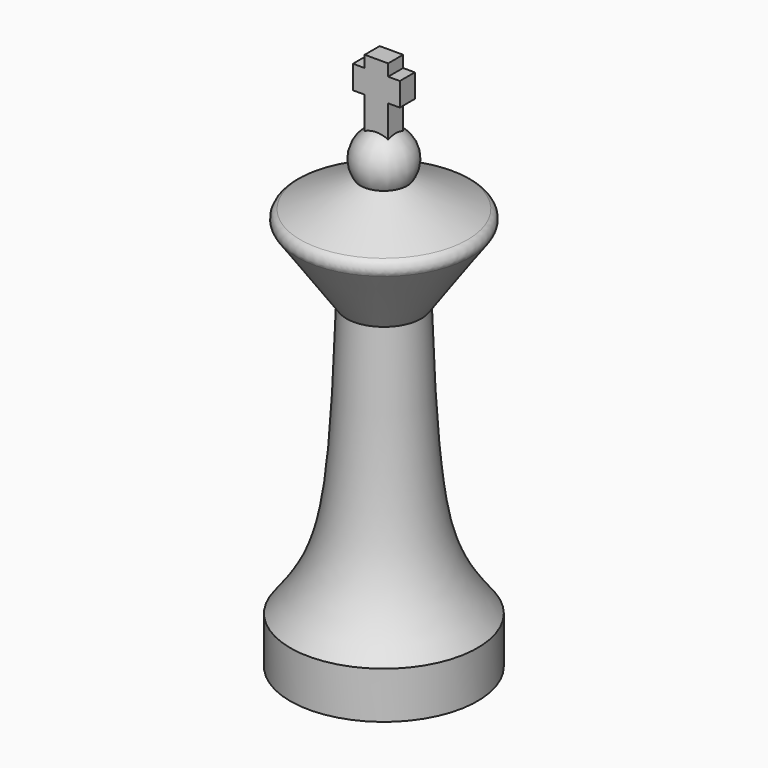
from build123d import *

# Parameters (mm, degrees)
F0_W          = 5
F0_H          = 15
F1_DEPTH      = 2
F1_DEPTH_BACK = 2
F2_W          = 10
F2_H          = 5
F3_DEPTH      = 4
F6_R          = 2


with BuildPart() as f1:
    # F0 (on Front) → F1 (new body, two sides)
    with BuildSketch(Plane.XZ) as f1_sk:
        with Locations((0, 107.5)):
            Rectangle(F0_W, F0_H)
    extrude(amount=F1_DEPTH)
    extrude(f1_sk.sketch, amount=-F1_DEPTH_BACK)

    # F2 (on face) → F3 (join)
    with BuildSketch(Plane.XZ.offset(2)):
        with Locations((0, 110)):
            Rectangle(F2_W, F2_H)
    extrude(amount=-F3_DEPTH)

    # F4 (on Front) → F5 (revolve)
    with BuildSketch(Plane.XZ):
        with BuildLine():
            ThreePointArc((0, 101.582115), (-5.404094, 98.30643), (-5, 92))
            Line((-5, 92), (-20, 85))
            Line((-20, 85), (-8, 68))
            add(Edge.make_bspline(
                [(-8, 68), (-9.443204, 26.660192), (-10.776733, 21.775554), (-20, 10)],
                knots=[0, 0, 0, 0, 59.228372, 59.228372, 59.228372, 59.228372], degree=3))
            Line((-20, 10), (-20, 0))
            Line((-20, 0), (0, 0))
            Line((0, 0), (0, 101.582115))
        make_face()
    revolve(axis=Axis((0, 0, 50.791058), (0, 0, 1)))

    # F6
    f6_edges = [f1.edges().sort_by_distance(p)[0] for p in [
        (20, 0, 85),
    ]]
    fillet(f6_edges, radius=F6_R)


solid = f1.part
